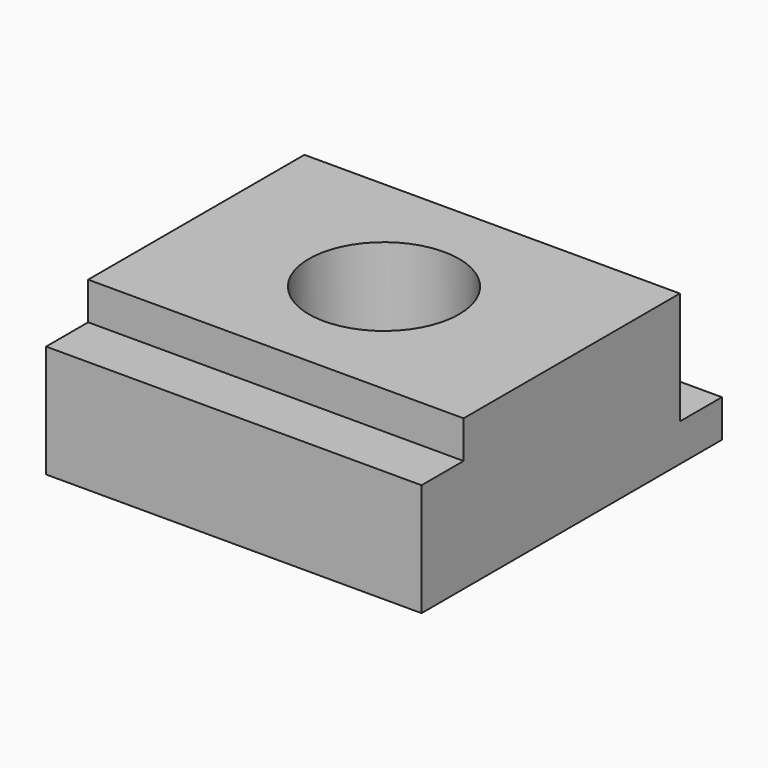
from build123d import *

# Parameters (mm, degrees)
F0_W     = 50
F0_H     = 20
F1_DEPTH = 50
F2_W     = 7
F2_H     = 5
F2_H_2   = 15
F3_DEPTH = 50
F4_R     = 10
F5_DEPTH = 20


with BuildPart() as f1:
    # F0 (on Right) → F1 (new body)
    with BuildSketch(Plane.YZ):
        with Locations((25, 10)):
            Rectangle(F0_W, F0_H)
    extrude(amount=F1_DEPTH)

    # F2 (on face) → F3 (cut)
    with BuildSketch(Plane.YZ.offset(50)):
        with Locations((3.5, 17.5)):
            Rectangle(F2_W, F2_H)
        with Locations((46.5, 12.5)):
            Rectangle(F2_W, F2_H_2)
    extrude(amount=-F3_DEPTH, mode=Mode.SUBTRACT)

    # F4 (on face) → F5 (cut)
    with BuildSketch(Plane.XY.offset(20)):
        with Locations((25, 25)):
            Circle(F4_R)
    extrude(amount=-F5_DEPTH, mode=Mode.SUBTRACT)


solid = f1.part
